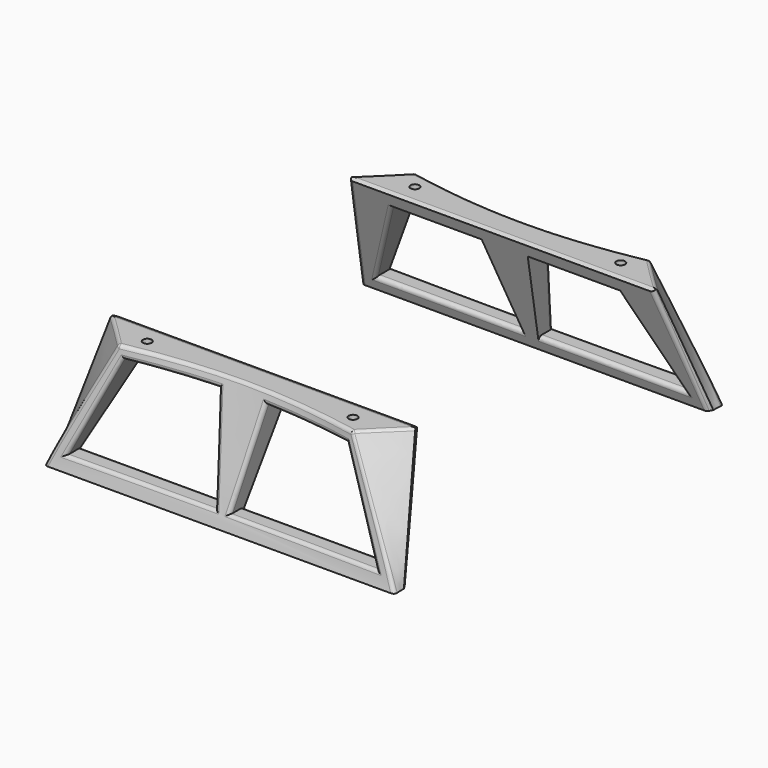
from build123d import *

# Parameters (mm, degrees)
BOX020_W                                = 200
BOX020_H                                = 30
BOX020_DEPTH                            = 10
EXTRUDE136049_DEPTH                     = 30
EXTRUDE136049_ONTO_SKETCH270_ROLL_ANGLE = 90
SKETCH271_R                             = 1.85
EXTRUDE136050_DEPTH                     = 15
SKETCH272_R                             = 2.75
EXTRUDE136051_DEPTH                     = 15
EXTRUDE136086_DEPTH                     = 3.5
BOX019_W                                = 200
BOX019_H                                = 30
BOX019_DEPTH                            = 10
LOFT005_ROLL_ANGLE                      = 20
FILLET004_R                             = 1.5
ARRAY019_COUNT                          = 2


with BuildPart() as cube017:
    # Box020 → Box020 (new body)
    with BuildSketch(Plane(origin=(-100, -5, -60), x_dir=(1, 0, 0), z_dir=(0, 0, 1))):
        with Locations((100, 15)):
            Rectangle(BOX020_W, BOX020_H)
    extrude(amount=BOX020_DEPTH)


with BuildPart() as extrude136049:
    # Sketch270 as drawn → Extrude136049 (new)
    with BuildSketch(Plane.XY):
        Polygon((-48, -5), (-10, -5), (-3.123248, -44), (-66.185999, -44), align=None)
        Polygon((48, -5), (10, -5), (3.123248, -44), (66.185999, -44), align=None)
    extrude(amount=-EXTRUDE136049_DEPTH)


with BuildPart() as extrude136049_1:
    # Extrude136049 onto Sketch270 roll: moved
    add(extrude136049.part.rotate(Axis((0, 0, 0), (1, 0, 0)), EXTRUDE136049_ONTO_SKETCH270_ROLL_ANGLE))


with BuildPart() as extrude136049_2:
    # Extrude136049 onto Sketch270 placement: moved
    add(extrude136049_1.part)


with BuildPart() as extrude136050:
    # Sketch271 → Extrude136050 (new body)
    with BuildSketch(Plane.XY):
        with Locations((-44, 7)):
            Circle(SKETCH271_R)
        with Locations((44, 7)):
            Circle(SKETCH271_R)
    extrude(amount=-EXTRUDE136050_DEPTH)


with BuildPart() as extrude136051:
    # Sketch272 → Extrude136051 (new body)
    with BuildSketch(Plane.XY.offset(-2.5)):
        with Locations((-44, 7)):
            Circle(SKETCH272_R)
        with Locations((44, 7)):
            Circle(SKETCH272_R)
    extrude(amount=-EXTRUDE136051_DEPTH)


with BuildPart() as extrude136086:
    # Sketch305 → Extrude136086 (new body)
    with BuildSketch(Plane.XY.offset(-20)):
        Polygon((-41.185417, 1.625), (-44, 3.25), (-46.814583, 1.625), (-46.814583, -1.625), (-44, -3.25), (-41.185417, -1.625), align=None)
        Polygon((46.814583, 1.625), (44, 3.25), (41.185417, 1.625), (41.185417, -1.625), (44, -3.25), (46.814583, -1.625), align=None)
    extrude(amount=-EXTRUDE136086_DEPTH)


with BuildPart() as extrude136086_1:
    # Extrude136086 placement: moved
    add(extrude136086.part.moved(Location((0, 7, 18))))


with BuildPart() as fusion034004041049:
    # Box019 → Box019 (new body)
    with BuildSketch(Plane(origin=(-100, -5, 0), x_dir=(1, 0, 0), z_dir=(0, 0, 1))):
        with Locations((100, 15)):
            Rectangle(BOX019_W, BOX019_H)
    extrude(amount=BOX019_DEPTH)

    # Fusion034004041049: union Cube017, Extrude136049, Extrude136050, Extrude136051, Extrude136086
    add(cube017.part)
    add(extrude136049_2.part)
    add(extrude136050.part)
    add(extrude136051.part)
    add(extrude136086_1.part)


with BuildPart() as array019:
    # Sketch268 → Loft005 section 0
    with BuildSketch(Plane.XY):
        with BuildLine():
            Line((-65, 0), (-47.123696, 15))
            ThreePointArc((-47.123696, 15), (0, 9.369126), (47.123696, 15))
            Line((65, 0), (47.123696, 15))
            Line((65, -2), (65, 0))
            Line((-65, -2), (65, -2))
            Line((-65, 0), (-65, -2))
        make_face()
    # Sketch269 → Loft005 section 1
    with BuildSketch(Plane.XY.offset(-55)):
        Polygon((-75, 0), (-75, 5), (74.999979, 5), (75, 0), (73.845299, -2), (-73.845299, -2), align=None)
    loft(ruled=True)


with BuildPart() as array019_1:
    # Loft005 roll: moved
    add(array019.part.rotate(Axis((0, 0, 0), (1, 0, 0)), LOFT005_ROLL_ANGLE))


with BuildPart() as array019_2:
    # Loft005 placement: moved
    add(array019_1.part)

    # Cut009010006006006005008: cut Fusion034004041049
    add(fusion034004041049.part, mode=Mode.SUBTRACT)


with BuildPart() as array019_3:
    # Cut009010006006006005008 placement: moved
    add(array019_2.part.moved(Location((0, 64.5, -25.5))))

    # Fillet004
    fillet004_edges = [array019_3.edges().sort_by_distance(p)[0] for p in [
        (-62.359537, 83.740726, -50.486497),
        (-57.289441, 71.914432, -25.5),
        (-69.220088, 71.595385, -50.84202),
        (62.359525, 83.740726, -50.486497),
        (-1e-06, 74.190239, -25.5),
        (57.093032, 83.256703, -50.00007),
        (34.655619, 86.508932, -69.5),
        (6.55898, 81.000983, -50.014992),
        (29.059101, 77.101849, -30.5),
        (-6.55898, 81.000983, -50.014992),
        (-34.655619, 86.508931, -69.5),
        (-57.093032, 83.256702, -50.00007),
        (-29.059101, 77.101848, -30.5),
        (57.28944, 71.914432, -25.5),
        (69.220088, 71.595385, -50.84202),
        (-57.290623, 71.443167, -50.423804),
        (-34.654623, 78.386335, -69.5),
        (34.654623, 78.386335, -69.5),
        (57.290623, 71.443167, -50.423804),
    ]]
    fillet(fillet004_edges, radius=FILLET004_R)


with BuildPart() as array019_copy1:
    # Array019: instance of Array019
    add(array019_3.part.rotate(Axis((0, 0, 0), (0, 0, 1)), 1 * 360 / ARRAY019_COUNT))


solid = Compound([array019_3.part, array019_copy1.part])
